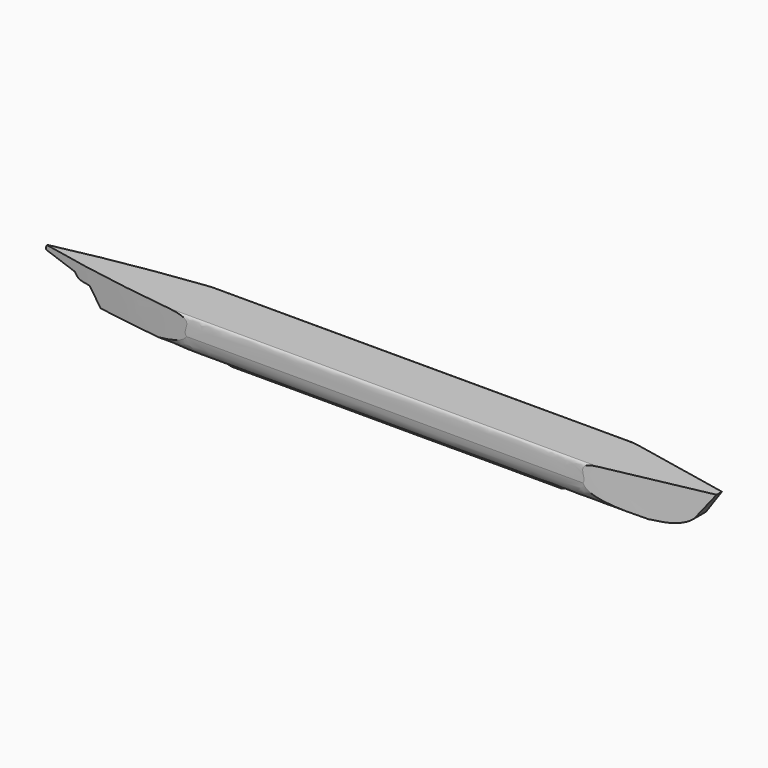
from build123d import *

# Parameters (mm, degrees)
F2_DEPTH      = 25.4
F2_DEPTH_BACK = 25.4
F3_START      = -25.4
F3_DEPTH      = 50.8
F5_START      = -127
F5_DEPTH      = 254


with BuildPart() as f2:
    # F0 (on Front) → F2 (new body, two sides)
    with BuildSketch(Plane.XZ) as f2_sk:
        with BuildLine():
            Line((49.3034385145, -12.6591986045), (80.8294340968, -11.2482793629))
            add(Edge.make_bspline(
                [(88.7997299433, -8.2594174892), (86.6448432207, -10.1710977033), (83.7102755904, -10.9251309186), (80.8294340968, -11.2482793629)],
                knots=[0, 0, 0, 0, 8.5122800224, 8.5122800224, 8.5122800224, 8.5122800224], degree=3))
            add(Edge.make_bspline(
                [(96.2007194757, 1.8457826227), (93.8508808613, -1.9105524989), (91.2667264541, -4.8910174519), (88.7997299433, -8.2594174892)],
                knots=[0, 0, 0, 0, 12.5255624768, 12.5255624768, 12.5255624768, 12.5255624768], degree=3))
            add(Edge.make_bspline(
                [(96.2007194757, 1.8457826227), (96.6052636504, 3.378030844), (95.6322476268, 4.2154751718), (94.1033139825, 3.9199064486)],
                knots=[0, 0, 0, 0, 2.9497626088, 2.9497626088, 2.9497626088, 2.9497626088], degree=3))
            Line((94.1033139825, 3.9199064486), (35.0275039673, 1.8457837868))
            Line((35.0275039673, 1.8457837868), (-40.4526665807, 2.5748184416))
            Line((-40.4526665807, 2.5748184416), (-107.7955812216, 2.5748184416))
            Line((-107.7955812216, 2.5748184416), (-108.0254688859, 2.3324957583))
            Line((-108.0254688859, 2.3324957583), (-120.2782839537, 1.8457837868))
            Line((-120.2782839537, 1.8457837868), (-121.8438744545, -0.6369079929))
            Line((-121.8438744545, -0.6369079929), (-121.8438744545, -1.427731826))
            Line((-121.8438744545, -1.427731826), (-110.7452437282, -3.1257118098))
            add(Edge.make_bspline(
                [(-105.0493270159, -4.8438203521), (-109.3491092324, -4.8438203521), (-109.2741191387, -4.6542368364), (-110.7452437282, -3.1257118098)],
                knots=[0, 0, 0, 0, 5.949400319, 5.949400319, 5.949400319, 5.949400319], degree=3))
            Line((-105.0493270159, -4.8438203521), (-100.9747311473, -9.6222627908))
            Line((-100.9747311473, -9.6222627908), (-75.3257003818, -9.6222627908))
            Line((-75.3257003818, -9.6222627908), (-66.9327676296, -11.0257063061))
            Line((-66.9327676296, -11.0257063061), (-60.3289708477, -14.8440878838))
            Line((-60.3289708477, -14.8440878838), (43.8810028136, -14.8440878838))
            Line((43.8810028136, -14.8440878838), (49.3034385145, -12.6591986045))
        make_face()
    extrude(amount=F2_DEPTH)
    extrude(f2_sk.sketch, amount=-F2_DEPTH_BACK)

    # F1 (on Top) → F3 (intersect)
    with BuildSketch(Plane.XY.offset(F3_START)):
        with BuildLine():
            add(Edge.make_bspline(
                [(-121.8438744545, 0), (-112.200885671, 2.0695003282), (-86.2658983329, 7.499264642), (-2.4018678783, 15.5438072997), (46.0648894639, 11.6694674831), (79.6385798099, 4.2438307412), (100.1770893315, 0)],
                knots=[0, 0, 0, 0, 0.2015174512, 0.5109644887, 0.7494232021, 1, 1, 1, 1], degree=3))
            add(Edge.make_bspline(
                [(-121.8438744545, 0), (-112.200885671, -2.0695003282), (-86.2658983329, -7.499264642), (-2.4018678783, -15.5438072997), (46.0648894639, -11.6694674831), (79.6385798099, -4.2438307412), (100.1770893315, 0)],
                knots=[0, 0, 0, 0, 0.2015174512, 0.5109644887, 0.7494232021, 1, 1, 1, 1], degree=3))
        make_face()
    extrude(amount=F3_DEPTH, mode=Mode.INTERSECT)

    # F4 (on Right) → F5 (intersect)
    with BuildSketch(Plane.YZ.offset(F5_START)):
        with BuildLine():
            Line((0, -14.8110892624), (0, -12.6631427556))
            Line((0, -12.6631427556), (-2.1555148996, -12.6631427556))
            add(Edge.make_bspline(
                [(-2.1555148996, -12.6631427556), (-1.4370099331, -13.3791249245), (-1.8134607235, -14.7169558331), (0, -14.8110892624)],
                knots=[0, 0, 0, 0, 3.0430114489, 3.0430114489, 3.0430114489, 3.0430114489], degree=3))
        make_face()
        with BuildLine():
            Line((0, -5.6524653919), (0, -12.6631427556))
            Line((0, -12.6631427556), (0, -14.8110892624))
            add(Edge.make_bspline(
                [(2.1555148996, -12.6631427556), (1.4370099331, -13.3791249245), (1.8134607235, -14.7169558331), (0, -14.8110892624)],
                knots=[0, 0, 0, 0, 3.0430114489, 3.0430114489, 3.0430114489, 3.0430114489], degree=3))
            add(Edge.make_bspline(
                [(2.1555148996, -12.6631427556), (5.7689431123, -11.1869191751), (8.2097398117, -10.5080995709), (8.55764281, -5.6524653919)],
                knots=[0, 0, 0, 0, 9.4940422834, 9.4940422834, 9.4940422834, 9.4940422834], degree=3))
            add(Edge.make_bspline(
                [(8.55764281, -5.6524653919), (8.2896867146, -3.7683102613), (9.13069956, 0), (7.7537745237, 0)],
                knots=[0, 0, 0, 0, 5.7093405248, 5.7093405248, 5.7093405248, 5.7093405248], degree=3))
            Line((7.7537745237, 0), (0, 0))
            Line((0, 0), (-7.7537745237, 0))
            add(Edge.make_bspline(
                [(-8.55764281, -5.6524653919), (-8.2896867146, -3.7683102613), (-9.13069956, 0), (-7.7537745237, 0)],
                knots=[0, 0, 0, 0, 5.7093405248, 5.7093405248, 5.7093405248, 5.7093405248], degree=3))
            Line((-8.55764281, -5.6524653919), (0, -5.6524653919))
        make_face()
        with BuildLine():
            Line((-2.1555148996, -12.6631427556), (0, -12.6631427556))
            Line((0, -12.6631427556), (0, -5.6524653919))
            Line((0, -5.6524653919), (-8.55764281, -5.6524653919))
            add(Edge.make_bspline(
                [(-2.1555148996, -12.6631427556), (-5.7689431123, -11.1869191751), (-8.2097398117, -10.5080995709), (-8.55764281, -5.6524653919)],
                knots=[0, 0, 0, 0, 9.4940422834, 9.4940422834, 9.4940422834, 9.4940422834], degree=3))
        make_face()
    extrude(amount=F5_DEPTH, mode=Mode.INTERSECT)


solid = f2.part
